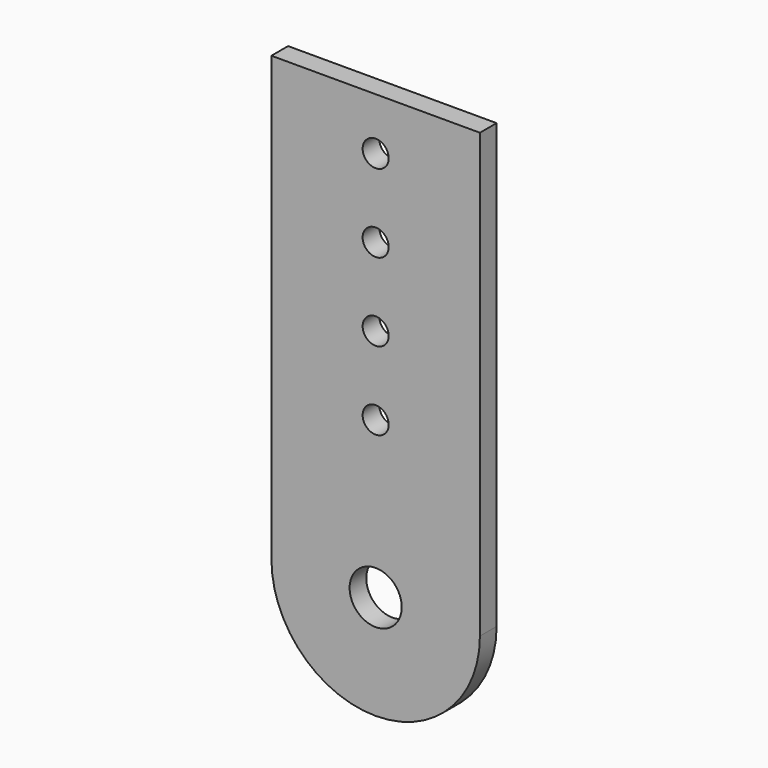
from build123d import *

# Parameters (mm, degrees)
F0_R     = 3.175
F1_DEPTH = 2.54


with BuildPart() as f1:
    # F0 (on Front) → F1 (new body, symmetric)
    with BuildSketch(Plane.XZ):
        with BuildLine():
            ThreePointArc((-25.4, 0), (0, 25.4), (25.4, 0))
            Line((25.4, 0), (25.4, 107.95))
            Line((25.4, 107.95), (-25.4, 107.95))
            Line((-25.4, 107.95), (-25.4, 0))
        make_face()
        with Locations((0, 38.1)):
            Circle(F0_R, mode=Mode.SUBTRACT)
        with Locations((0, 57.15)):
            Circle(F0_R, mode=Mode.SUBTRACT)
        with Locations((0, 76.2)):
            Circle(F0_R, mode=Mode.SUBTRACT)
        with Locations((0, 95.25)):
            Circle(F0_R, mode=Mode.SUBTRACT)
        with BuildLine():
            Line((6.35, 0), (25.4, 0))
            ThreePointArc((25.4, 0), (0, 25.4), (-25.4, 0))
            Line((-25.4, 0), (-6.35, 0))
            ThreePointArc((-6.35, 0), (0, 6.35), (6.35, 0))
        make_face()
        with BuildLine():
            ThreePointArc((-25.4, 0), (0, -25.4), (25.4, 0))
            Line((25.4, 0), (6.35, 0))
            ThreePointArc((6.35, 0), (0, -6.35), (-6.35, 0))
            Line((-6.35, 0), (-25.4, 0))
        make_face()
    extrude(amount=F1_DEPTH, both=True)


solid = f1.part
